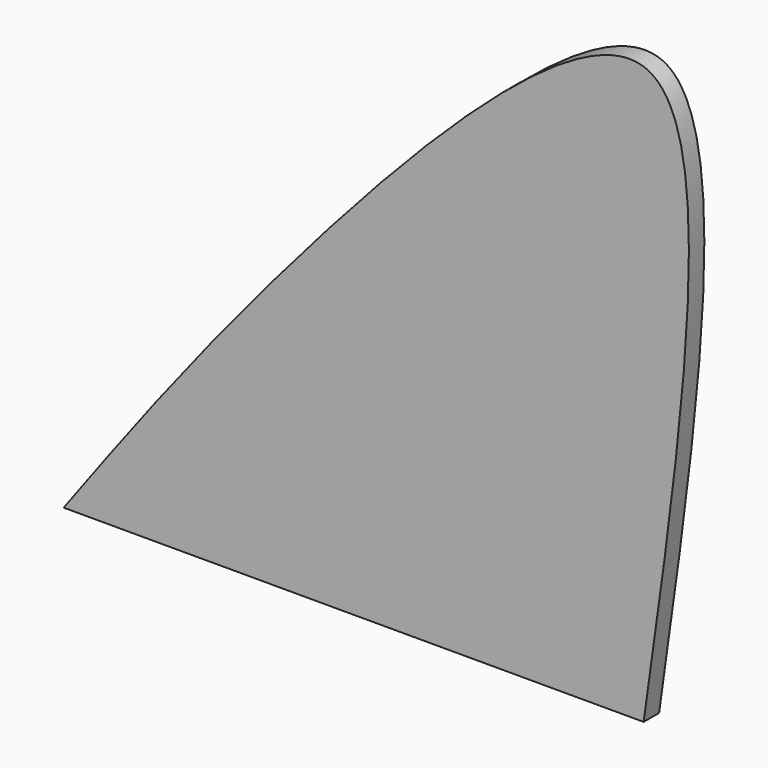
from build123d import *

# Parameters (mm, degrees)
F1_DEPTH = 5.08


with BuildPart() as f1:
    # F0 (on Front) → F1 (new body)
    with BuildSketch(Plane.XZ):
        with BuildLine():
            add(Edge.make_bspline(
                [(76.9218355417, -31.7455232143), (87.2347392868, 40.6636657896), (106.4369664209, 175.4867585584), (-20.7406795338, 42.6499773302), (-57.6343199308, -7.2902173221), (-75.7008343935, -31.7455232143)],
                knots=[0, 0, 0, 0, 0.3718717639, 0.6924107638, 1, 1, 1, 1], degree=3))
            Line((-75.7008343935, -31.7455232143), (76.9218355417, -31.7455232143))
        make_face()
    extrude(amount=F1_DEPTH)


solid = f1.part
